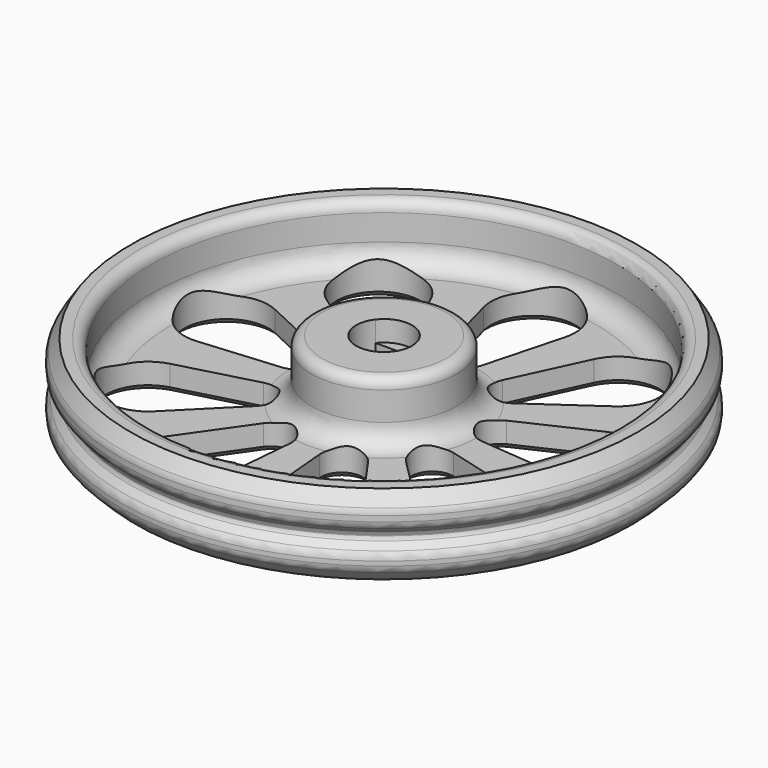
from build123d import *

# Parameters (mm, degrees)
CYLINDER_R               = 1.4
CYLINDER_DEPTH           = 23
CYLINDER_ROLL_ANGLE      = 115
CYLINDER_PLACEMENT_ANGLE = 180
FILLET_R                 = 1
FILLET001_R              = 0.5
POCKET_DEPTH             = 8
SKETCH002_R              = 2.7
POCKET001_DEPTH          = 2
POCKET002_DEPTH          = 147.691395
POCKET002_DEPTH_BACK     = 150.941395
POLARPATTERN_COUNT       = 9
CHAMFER_SIZE             = 0.5


with BuildPart() as cilindro:
    # Cylinder → Cylinder (new body)
    with BuildSketch(Plane.XY):
        Circle(CYLINDER_R)
    extrude(amount=CYLINDER_DEPTH)


with BuildPart() as cilindro_1:
    # Cylinder roll: moved
    add(cilindro.part.rotate(Axis((0, 0, 0), (1, 0, 0)), CYLINDER_ROLL_ANGLE))


with BuildPart() as cilindro_2:
    # Cylinder placement: moved
    add(cilindro_1.part.moved(Location((0, 0, 4.5))).rotate(Axis((0, 0, 4.5), (0, 0, 1)), CYLINDER_PLACEMENT_ANGLE))


with BuildPart() as chamfer_body:
    # Sketch → Revolution (revolve)
    with BuildSketch(Plane.XZ):
        with BuildLine():
            Line((24, 0), (25.5, 1.5))
            Line((25.5, 1.5), (25.5, 2.75))
            Line((25.5, 2.75), (24.5, 3.75))
            Line((24.5, 3.75), (24.5, 4.25))
            Line((24.5, 4.25), (25.5, 5.25))
            Line((25.5, 5.25), (25.5, 6.5))
            Line((25.5, 6.5), (24.5, 8))
            Line((23.5, 8), (24.5, 8))
            ThreePointArc((23.5, 8), (22.792893, 7.707107), (22.5, 7))
            Line((22.5, 7), (22.5, 4.5))
            ThreePointArc((20.5, 2.5), (21.914214, 3.085786), (22.5, 4.5))
            Line((9, 2.5), (20.5, 2.5))
            ThreePointArc((7, 4.5), (7.585786, 3.085786), (9, 2.5))
            Line((7, 7.249989), (7, 4.5))
            ThreePointArc((7, 7.249989), (6.707111, 7.957103), (6, 8.25))
            Line((0, 8.25), (6, 8.25))
            Line((0, 0), (0, 8.25))
            Line((24, 0), (0, 0))
        make_face()
    revolve(axis=Axis((0, 0, 0), (0, 0, 1)))

    # Fillet
    fillet_edges = [chamfer_body.edges().sort_by_distance(p)[0] for p in [
        (-25.5, 0, 1.5),
        (-25.5, 0, 2.75),
        (-25.5, 0, 5.25),
        (-25.5, 0, 6.5),
    ]]
    fillet(fillet_edges, radius=FILLET_R)

    # Fillet001
    fillet001_edges = [chamfer_body.edges().sort_by_distance(p)[0] for p in [
        (-24.5, 0, 4.25),
        (-24.5, 0, 3.75),
    ]]
    fillet(fillet001_edges, radius=FILLET001_R)

    # Sketch001 → Pocket (cut)
    with BuildSketch(Plane(origin=(0, 0, 8.25), x_dir=(-1, 0, 0), z_dir=(0, 0, 1))):
        with BuildLine():
            Line((-2.137171, 1.65), (2.137171, 1.65))
            ThreePointArc((2.137171, -1.65), (2.7, 0), (2.137171, 1.65))
            Line((-2.137171, -1.65), (2.137171, -1.65))
            ThreePointArc((-2.137171, 1.65), (-2.7, 0), (-2.137171, -1.65))
        make_face()
    extrude(amount=-POCKET_DEPTH, mode=Mode.SUBTRACT)

    # Sketch002 → Pocket001 (cut)
    with BuildSketch(Plane(origin=(0, 0, 8.25), x_dir=(-1, 0, 0), z_dir=(0, 0, 1))):
        Circle(SKETCH002_R)
    extrude(amount=-POCKET001_DEPTH, mode=Mode.SUBTRACT)

    # Cut: cut Cilindro
    add(cilindro_2.part, mode=Mode.SUBTRACT)

    # Sketch003 → Pocket002 (cut, two sides)
    with BuildSketch(Plane.XY.offset(2.5)) as pocket002_sk:
        with BuildLine():
            ThreePointArc((-1.931848, 9.482348), (0, 8), (1.931848, 9.482348))
            Line((1.931848, 9.482348), (3.931855, 16.946478))
            ThreePointArc((3.931855, 16.946478), (0, 22.070552), (-3.931855, 16.946478))
            Line((-3.931855, 16.946478), (-1.931848, 9.482348))
        make_face()
    pocket002 = extrude(amount=-POCKET002_DEPTH, mode=Mode.SUBTRACT) + extrude(pocket002_sk.sketch, amount=POCKET002_DEPTH_BACK, mode=Mode.SUBTRACT)

    # PolarPattern: Pocket002 ×9 about axis
    polarpattern_axis = Axis((0, 0, 2.5), (0, 0, 1))
    for i in range(1, POLARPATTERN_COUNT):
        add(pocket002.rotate(polarpattern_axis, i * 360 / POLARPATTERN_COUNT), mode=Mode.SUBTRACT)

    # Chamfer
    chamfer_edges = [chamfer_body.edges().sort_by_distance(p)[0] for p in [
        (-4.4e-05, 6.337599, 0),
        (-6.248132, 12.007385, 0),
        (-5.142301, 6.128356, 0),
        (-10.739989, 8.23827, 0),
        (-14.186678, 16.907024, 0),
        (-13.522767, -0.592652, 0),
        (-21.735251, 3.832511, 0),
        (-12.504545, 5.181969, 0),
        (-7.878462, 1.389185, 0),
        (1.695803, 8.939693, 0),
        (-1.695803, 8.939693, 0),
        (2.931852, 13.214413, 0),
        (-2.931852, 13.214413, 0),
        (0, 22.070552, 0),
        (-12.909943, -4.068148, 0),
        (-6.928203, -4, 0),
        (-9.978091, -9.146264, 0),
        (-19.113659, -11.035276, 0),
        (-7.274635, -11.414734, 0),
        (-2.736161, -7.517541, 0),
        (-1.764556, -13.420238, 0),
        (-7.548573, -20.739535, 0),
        (10.739989, 8.23827, 0),
        (5.142301, 6.128356, 0),
        (6.248132, 12.007385, 0),
        (14.186678, 16.907024, 0),
        (13.522767, -0.592652, 0),
        (7.878462, 1.389185, 0),
        (12.504545, 5.181969, 0),
        (21.735251, 3.832511, 0),
        (1.764556, -13.420238, 0),
        (2.736161, -7.517541, 0),
        (7.274635, -11.414734, 0),
        (7.548573, -20.739535, 0),
        (12.909943, -4.068148, 0),
        (19.113659, -11.035276, 0),
        (9.978091, -9.146264, 0),
        (6.928203, -4, 0),
    ]]
    chamfer(chamfer_edges, length=CHAMFER_SIZE)


solid = chamfer_body.part
